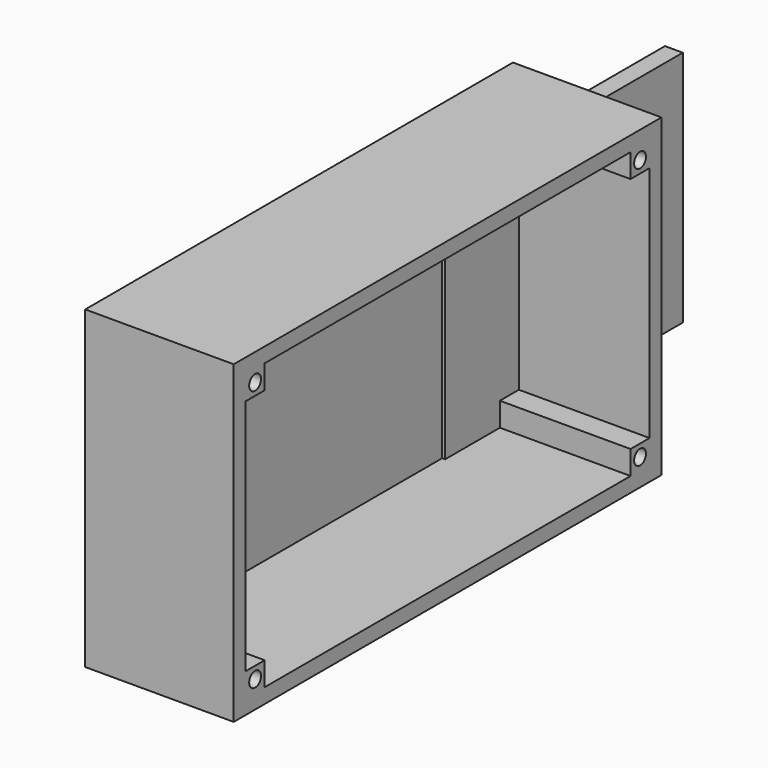
from build123d import *

# Parameters (mm, degrees)
F0_W      = 90
F0_H      = 53
F1_DEPTH  = 25
F2_T      = -2.5
F3_W      = 4
F3_H      = 4
F4_DEPTH  = 22.5
F5_W      = 4
F5_H      = 4
F6_DEPTH  = 22.5
F7_W      = 4
F7_H      = 4
F8_DEPTH  = 22.5
F9_R      = 1.25
F10_DEPTH = 8
F11_W     = 50
F11_H     = 40
F12_DEPTH = 3


with BuildPart() as f1:
    # F0 (on Right) → F1 (new body)
    with BuildSketch(Plane.YZ):
        with Locations((-14.786185, 35.856023)):
            Rectangle(F0_W, F0_H)
    extrude(amount=F1_DEPTH)

    # F2
    f2_openings = [f1.faces().sort_by_distance(p)[0] for p in [
        (25, -14.786185, 35.856023),
    ]]
    offset(amount=F2_T, openings=f2_openings)

    # F3 (on face) → F4 (join)
    with BuildSketch(Plane.YZ.offset(2.5)):
        with Locations((-55.286185, 57.856023)):
            Rectangle(F3_W, F3_H)
    extrude(amount=F4_DEPTH)

    # F5 (on face) → F6 (join)
    with BuildSketch(Plane.YZ.offset(2.5)):
        with Locations((-55.286185, 13.856023)):
            Rectangle(F5_W, F5_H)
    extrude(amount=F6_DEPTH)

    # F7 (on face) → F8 (join)
    with BuildSketch(Plane.YZ.offset(2.5)):
        with Locations((25.713815, 57.856023)):
            Rectangle(F7_W, F7_H)
        with Locations((25.713815, 13.856023)):
            Rectangle(F7_W, F7_H)
    extrude(amount=F8_DEPTH)

    # F9 (on face) → F10 (cut)
    with BuildSketch(Plane.YZ.offset(25)):
        with Locations((25.713815, 13.856023)):
            Circle(F9_R)
        with Locations((25.713815, 57.856023)):
            Circle(F9_R)
        with Locations((-55.286185, 13.856023)):
            Circle(F9_R)
        with Locations((-55.286185, 57.856023)):
            Circle(F9_R)
    extrude(amount=-F10_DEPTH, mode=Mode.SUBTRACT)


with BuildPart() as f12:
    # F11 (on Right) → F12 (new body)
    with BuildSketch(Plane.YZ):
        with Locations((37.198514, 31.791784)):
            Rectangle(F11_W, F11_H)
    extrude(amount=F12_DEPTH)


solid = Compound([f1.part, f12.part])
